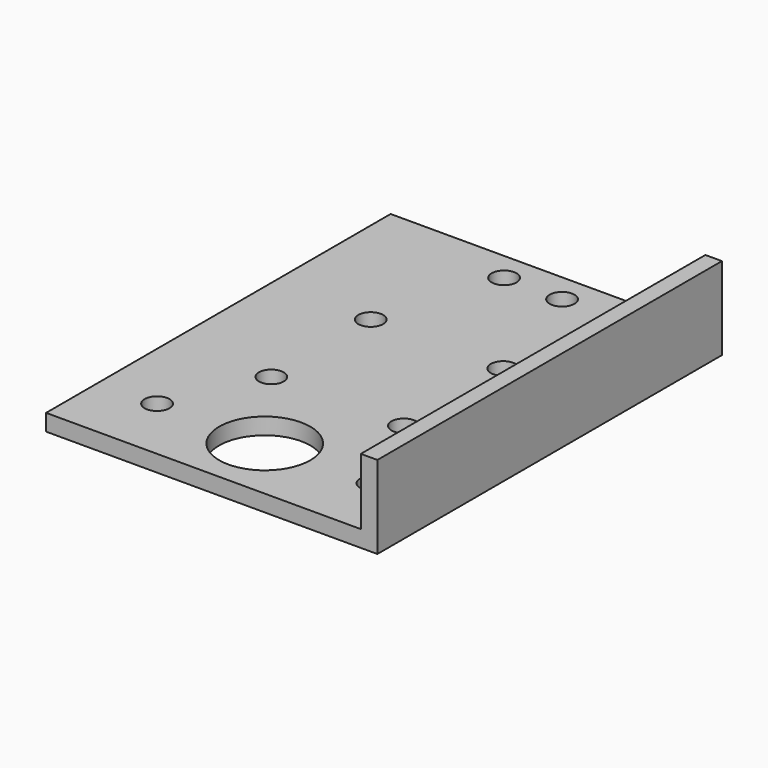
from build123d import *

# Parameters (mm, degrees)
F0_W     = 40
F0_H     = 52
F0_R     = 1.5
F0_R_2   = 5.5
F1_DEPTH = 2
F2_W     = 2
F2_H     = 52
F3_DEPTH = 8


with BuildPart() as f1:
    # F0 (on Top) → F1 (new body)
    with BuildSketch(Plane.XY):
        with Locations((0, 18)):
            Rectangle(F0_W, F0_H)
        with Locations((-13, 0)):
            Circle(F0_R, mode=Mode.SUBTRACT)
        with Locations((-8, 11)):
            Circle(F0_R, mode=Mode.SUBTRACT)
        Circle(F0_R_2, mode=Mode.SUBTRACT)
        with Locations((13, 0)):
            Circle(F0_R, mode=Mode.SUBTRACT)
        with Locations((8, 11)):
            Circle(F0_R, mode=Mode.SUBTRACT)
        with Locations((-8, 26)):
            Circle(F0_R, mode=Mode.SUBTRACT)
        with Locations((-3.5, 40.5)):
            Circle(F0_R, mode=Mode.SUBTRACT)
        with Locations((8, 26)):
            Circle(F0_R, mode=Mode.SUBTRACT)
        with Locations((3.5, 40.5)):
            Circle(F0_R, mode=Mode.SUBTRACT)
    extrude(amount=F1_DEPTH)

    # F2 (on face) → F3 (join)
    with BuildSketch(Plane.XY.offset(2)):
        with Locations((19, 18)):
            Rectangle(F2_W, F2_H)
    extrude(amount=F3_DEPTH)


solid = f1.part
